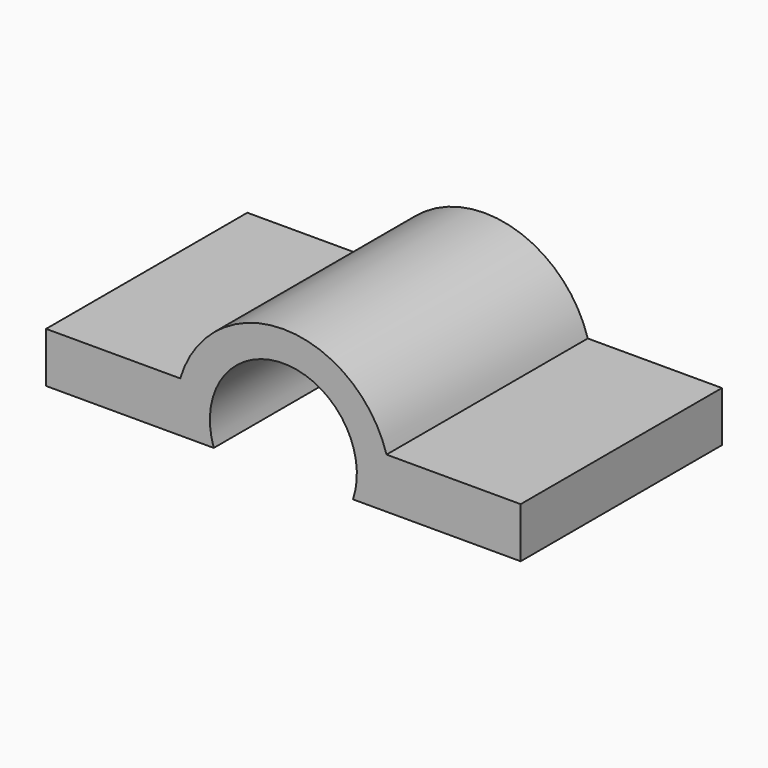
from build123d import *

# Parameters (mm, degrees)
F1_DEPTH = 15


with BuildPart() as f1:
    # F0 (on Front) → F1 (new body)
    with BuildSketch(Plane.XZ):
        with BuildLine():
            Line((-14.15, 3), (-14.15, 0))
            Line((-14.15, 0), (-4.15, 0))
            ThreePointArc((-4.15, 0), (0, 5.789751), (4.15, 0))
            Line((4.15, 0), (14.15, 0))
            Line((14.15, 0), (14.15, 3))
            Line((14.15, 3), (6.15, 3))
            ThreePointArc((6.15, 3), (0, 7.589751), (-6.15, 3))
            Line((-6.15, 3), (-14.15, 3))
        make_face()
    extrude(amount=F1_DEPTH)


solid = f1.part
